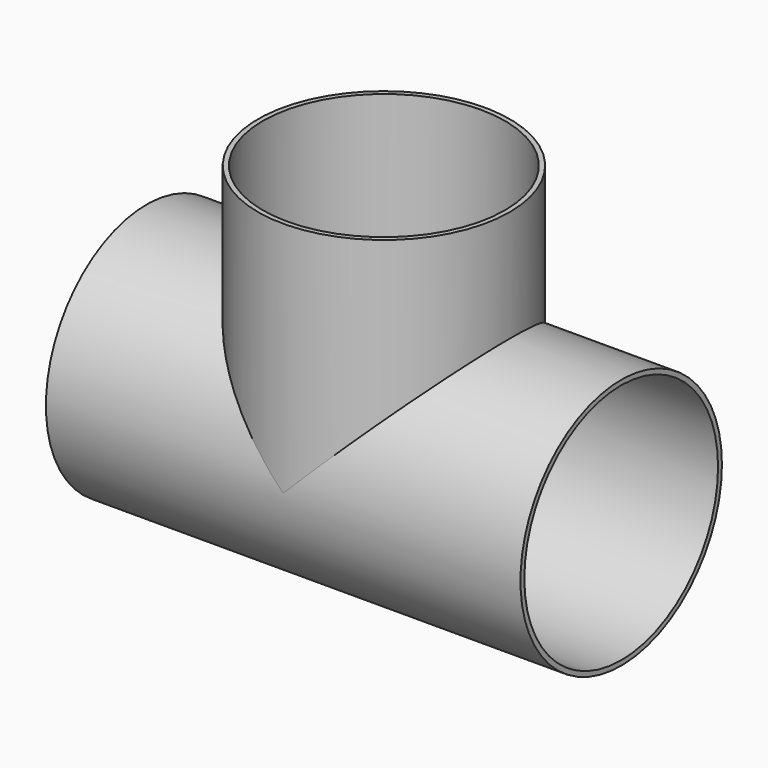
from build123d import *

# Parameters (mm, degrees)
F0_R     = 52
F0_R_2   = 50
F2_DEPTH = 196
F1_R     = 52
F1_R_2   = 50
F3_DEPTH = 98
F4_DEPTH = 78
F5_DEPTH = 188


with BuildPart() as f2:
    # F0 (on Right) → F2 (new body)
    with BuildSketch(Plane.YZ):
        Circle(F0_R)
        Circle(F0_R_2, mode=Mode.SUBTRACT)
    extrude(amount=-F2_DEPTH)

    # F1 (on Top) → F3 (join)
    with BuildSketch(Plane.XY):
        with Locations((-98, 0)):
            Circle(F1_R)
        with Locations((-98, 0)):
            Circle(F1_R_2, mode=Mode.SUBTRACT)
    extrude(amount=F3_DEPTH)

    # F1 (on Top) → F4 (cut)
    with BuildSketch(Plane.XY):
        with Locations((-98, 0)):
            Circle(F1_R_2)
    extrude(amount=F4_DEPTH, mode=Mode.SUBTRACT)

    # F0 (on Right) → F5 (cut)
    with BuildSketch(Plane.YZ):
        Circle(F0_R_2)
    extrude(amount=-F5_DEPTH, mode=Mode.SUBTRACT)


solid = f2.part
